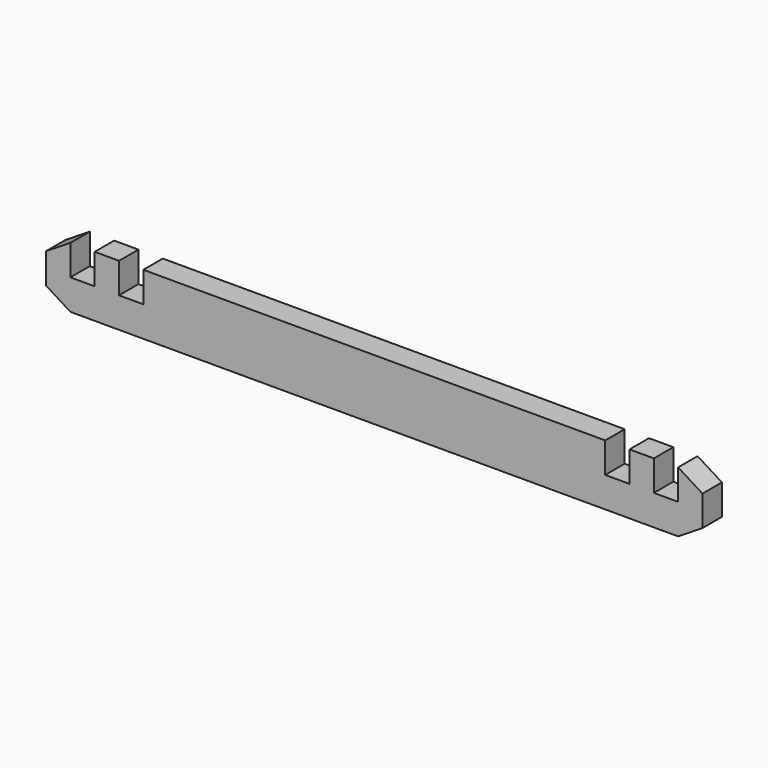
from build123d import *

# Parameters (mm, degrees)
F1_DEPTH = 4
F2_W     = 4
F2_H     = 5
F3_DEPTH = 4


with BuildPart() as f1:
    # F0 (on Front) → F1 (new body)
    with BuildSketch(Plane.XZ):
        Polygon((0, 2.5), (4, 0), (104, 0), (108, 2.5), (108, 7.5), (104, 10), (4, 10), (0, 7.5), align=None)
    extrude(amount=F1_DEPTH)

    # F2 (on face) → F3 (cut, through all)
    with BuildSketch(Plane.XZ.offset(4)):
        with Locations((6, 7.5)):
            Rectangle(F2_W, F2_H)
        with Locations((14, 7.5)):
            Rectangle(F2_W, F2_H)
        with Locations((102, 7.5)):
            Rectangle(F2_W, F2_H)
        with Locations((94, 7.5)):
            Rectangle(F2_W, F2_H)
    extrude(amount=-F3_DEPTH, mode=Mode.SUBTRACT)


solid = f1.part
